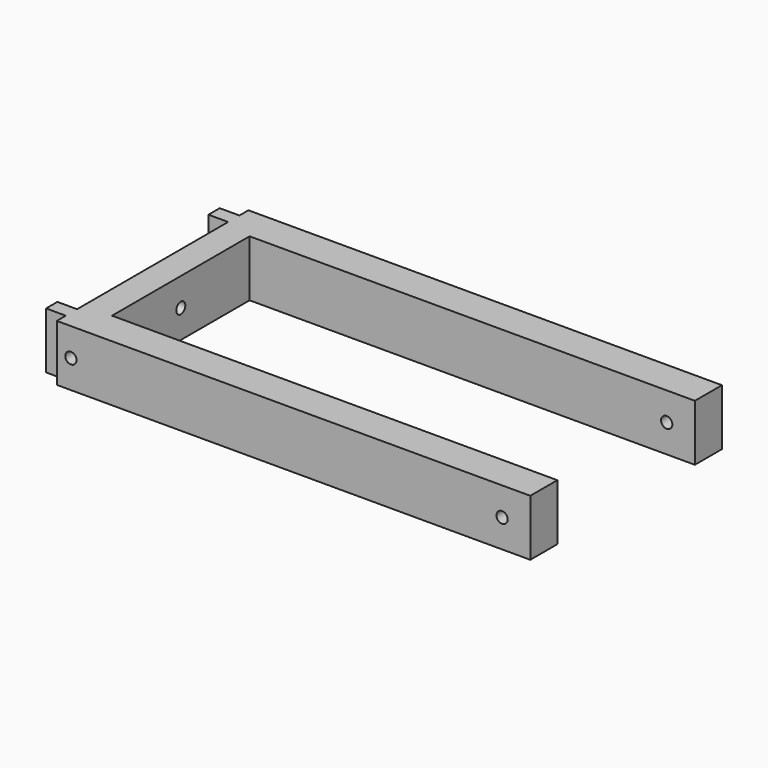
from build123d import *

# Parameters (mm, degrees)
PAD_DEPTH       = 20
SKETCH004_R     = 2
POCKET002_DEPTH = 168.001
SKETCH005_R     = 2
POCKET003_DEPTH = 85.001


with BuildPart() as part:
    # Sketch → Pad (new body)
    with BuildSketch(Plane.XY):
        Polygon((-10, -42.5), (158, -42.5), (158, -30.5), (0, -30.5), (0, 30.5), (158, 30.5), (158, 42.5), (-10, 42.5), (-10, 38.5), (-17, 38.5), (-17, 33.5), (-10, 33.5), (-10, -33.5), (-17, -33.5), (-17, -38.5), (-10, -38.5), align=None)
    extrude(amount=PAD_DEPTH)

    # Sketch004 → Pocket002 (cut, through all)
    with BuildSketch(Plane(origin=(-10, 0, 0), x_dir=(0, -1, 0), z_dir=(-1, 0, 0))):
        with Locations((0, 10)):
            Circle(SKETCH004_R)
    extrude(amount=-POCKET002_DEPTH, mode=Mode.SUBTRACT)

    # Sketch005 → Pocket003 (cut, through all)
    with BuildSketch(Plane.XZ.offset(42.5)):
        with Locations((-5, 10)):
            Circle(SKETCH005_R)
        with Locations((148, 10)):
            Circle(SKETCH005_R)
    extrude(amount=-POCKET003_DEPTH, mode=Mode.SUBTRACT)


solid = part.part
